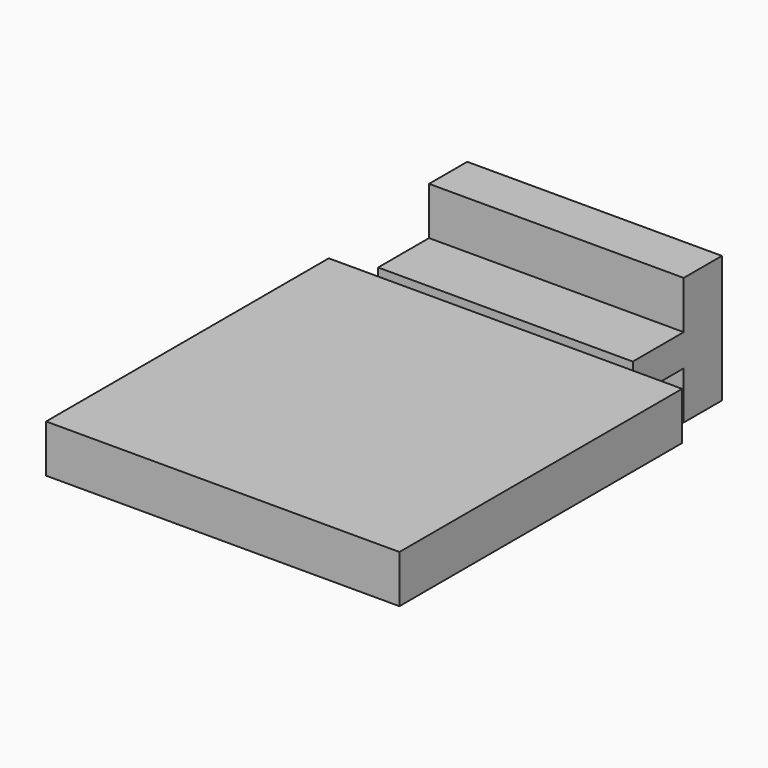
from build123d import *

# Parameters (mm, degrees)
F0_W     = 406.4
F0_H     = 203.2
F1_DEPTH = 76.2
F2_W     = 406.4
F2_H     = 50.8
F3_DEPTH = 101.6
F5_DEPTH = 38.1


with BuildPart() as f1:
    # F0 (on Front) → F1 (new body)
    with BuildSketch(Plane.XZ):
        with Locations((-124.183113, 14.692131)):
            Rectangle(F0_W, F0_H)
    extrude(amount=F1_DEPTH)

    # F2 (on face) → F3 (join)
    with BuildSketch(Plane.XZ.offset(76.2)):
        with Locations((-124.183113, 14.692131)):
            Rectangle(F2_W, F2_H)
    extrude(amount=F3_DEPTH)

    # F4 (on face) → F5 (join, symmetric)
    with BuildSketch(Plane(origin=(0, 0, -10.707869), x_dir=(1, 0, 0), z_dir=(0, 0, -1))):
        Polygon((-406.123113, 741.68), (-406.123113, 177.8), (-327.383113, 177.8), (79.016887, 177.8), (157.756887, 177.8), (157.756887, 741.68), align=None)
    extrude(amount=F5_DEPTH, both=True)


solid = f1.part
